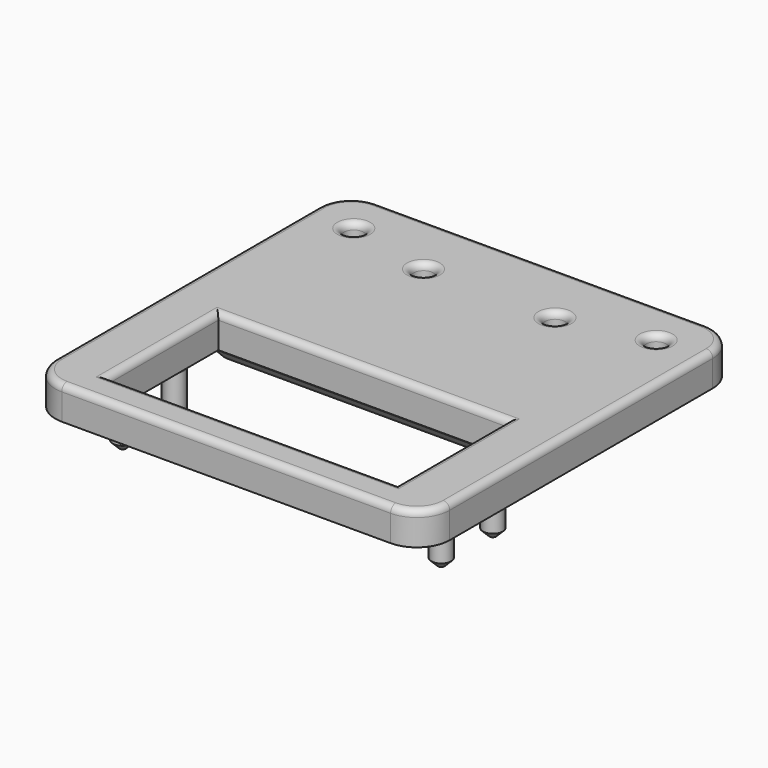
from build123d import *

# Parameters (mm, degrees)
SKETCH_W        = 60
SKETCH_H        = 60
SKETCH_R        = 1.5
SKETCH_W_2      = 44
SKETCH_H_2      = 21
PAD_DEPTH       = 5
SKETCH001_R     = 1.5
PAD001_DEPTH    = 7.5
CHAMFER_SIZE    = 1
FILLET_R        = 5
SKETCH002_W     = 50
SKETCH002_H     = 4
PAD002_DEPTH    = 4
SKETCH003_W     = 50
SKETCH003_H     = 1.8
PAD003_DEPTH    = 2
FILLET001_R     = 0.5
CHAMFER001_SIZE = 1.95
FILLET002_R     = 1
FILLET003_R     = 0.8
FILLET004_R     = 0.8
FILLET005_R     = 0.4


with BuildPart() as part:
    # Sketch → Pad (new body)
    with BuildSketch(Plane.XY):
        with Locations((30, 30)):
            Rectangle(SKETCH_W, SKETCH_H)
        with Locations((7, 53)):
            Circle(SKETCH_R, mode=Mode.SUBTRACT)
        with Locations((40, 50)):
            Circle(SKETCH_R, mode=Mode.SUBTRACT)
        with Locations((20, 50)):
            Circle(SKETCH_R, mode=Mode.SUBTRACT)
        with Locations((53, 53)):
            Circle(SKETCH_R, mode=Mode.SUBTRACT)
        with Locations((30, 15.5)):
            Rectangle(SKETCH_W_2, SKETCH_H_2, mode=Mode.SUBTRACT)
    extrude(amount=PAD_DEPTH)

    # Sketch001 (on Face13 of Pad) → Pad001 (join)
    with BuildSketch(Plane(origin=(0, 0, 0), x_dir=(1, 0, 0), z_dir=(0, 0, -1))):
        with Locations((5.775, -10.6)):
            Circle(SKETCH001_R)
        with Locations((5.775, -20.4)):
            Circle(SKETCH001_R)
        with Locations((54.225, -10.6)):
            Circle(SKETCH001_R)
        with Locations((54.225, -20.4)):
            Circle(SKETCH001_R)
    extrude(amount=PAD001_DEPTH)

    # Chamfer
    chamfer_edges = [part.edges().sort_by_distance(p)[0] for p in [
        (4.275, 10.6, -7.5),
        (4.275, 20.4, -7.5),
        (52.725, 20.4, -7.5),
        (52.725, 10.6, -7.5),
    ]]
    chamfer(chamfer_edges, length=CHAMFER_SIZE)

    # Fillet
    fillet_edges = [part.edges().sort_by_distance(p)[0] for p in [
        (0, 0, 2.5),
        (60, 0, 2.5),
        (0, 60, 2.5),
        (60, 60, 2.5),
    ]]
    fillet(fillet_edges, radius=FILLET_R)

    # Sketch002 (on Face1 of Fillet) → Pad002 (join)
    with BuildSketch(Plane(origin=(0, 0, 0), x_dir=(1, 0, 0), z_dir=(0, 0, -1))):
        with Locations((30, -31)):
            Rectangle(SKETCH002_W, SKETCH002_H)
    extrude(amount=PAD002_DEPTH)

    # Sketch003 (on Face23 of Pad002) → Pad003 (join)
    with BuildSketch(Plane(origin=(0, 33, 0), x_dir=(-1, 0, 0), z_dir=(0, 1, 0))):
        with Locations((-30, -3.1)):
            Rectangle(SKETCH003_W, SKETCH003_H)
    extrude(amount=PAD003_DEPTH)

    # Fillet001
    fillet001_edges = [part.edges().sort_by_distance(p)[0] for p in [
        (30, 35, -4),
        (55, 35, -3.1),
        (30, 35, -2.2),
        (5, 35, -3.1),
    ]]
    fillet(fillet001_edges, radius=FILLET001_R)

    # Chamfer001
    chamfer001_edges = [part.edges().sort_by_distance(p)[0] for p in [
        (30, 29, -4),
        (30, 29, 0),
    ]]
    chamfer(chamfer001_edges, length=CHAMFER001_SIZE)

    # Fillet002
    fillet002_edges = [part.edges().sort_by_distance(p)[0] for p in [
        (30, 0, 5),
        (1.464466, 1.464466, 5),
        (58.535534, 1.464466, 5),
        (0, 30, 5),
        (60, 30, 5),
        (1.464466, 58.535534, 5),
        (58.535534, 58.535534, 5),
        (30, 60, 5),
        (30, 26, 5),
        (52, 15.5, 5),
        (30, 5, 5),
        (8, 15.5, 5),
        (51.5, 53, 5),
        (18.5, 50, 5),
        (38.5, 50, 5),
        (5.5, 53, 5),
    ]]
    fillet(fillet002_edges, radius=FILLET002_R)

    # Fillet003
    fillet003_edges = [part.edges().sort_by_distance(p)[0] for p in [
        (30, 33, -2.2),
        (30, 33, 0),
    ]]
    fillet(fillet003_edges, radius=FILLET003_R)

    # Fillet004
    fillet004_edges = [part.edges().sort_by_distance(p)[0] for p in [
        (52.725, 20.4, 0),
        (52.725, 10.6, 0),
        (4.275, 20.4, 0),
        (4.275, 10.6, 0),
    ]]
    fillet(fillet004_edges, radius=FILLET004_R)

    # Fillet005
    fillet005_edges = [part.edges().sort_by_distance(p)[0] for p in [
        (55, 33.75, -4),
        (55, 31.975, -4),
        (5, 31.975, -4),
        (5, 33.75, -4),
    ]]
    fillet(fillet005_edges, radius=FILLET005_R)


solid = part.part
